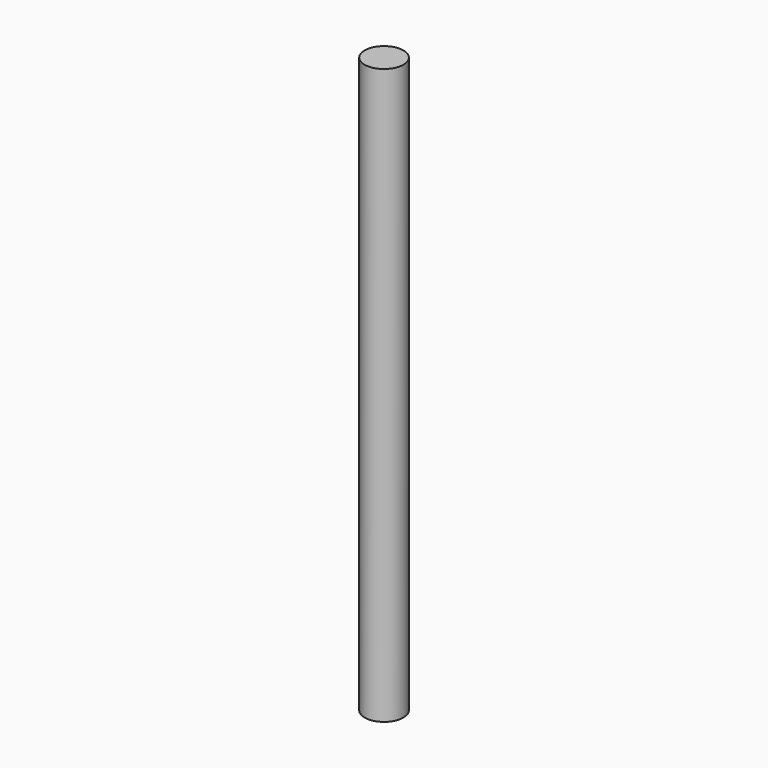
from build123d import *

# Parameters (mm, degrees)
F0_R     = 17.145
F1_DEPTH = 254
F2_T     = -1.778


with BuildPart() as f1:
    # F0 (on Top) → F1 (new body, symmetric)
    with BuildSketch(Plane.XY):
        Circle(F0_R)
    extrude(amount=F1_DEPTH, both=True)

    # F2
    f2_openings = [f1.faces().sort_by_distance(p)[0] for p in [
        (0, 0, -254),
    ]]
    offset(amount=F2_T, openings=f2_openings)


solid = f1.part
